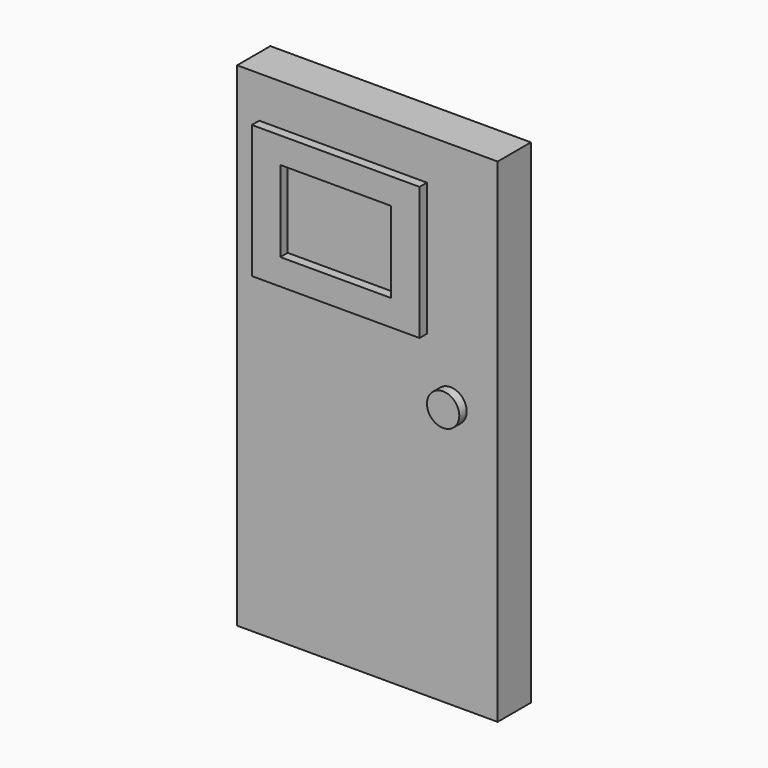
from build123d import *

# Parameters (mm, degrees)
F0_W     = 28.651202
F0_H     = 54.254404
F1_DEPTH = 4.572
F2_R     = 1.777274
F2_W     = 18.440403
F2_H     = 14.630441
F3_DEPTH = 1.016


with BuildPart() as f1:
    # F0 (on Front) → F1 (new body)
    with BuildSketch(Plane.XZ):
        with Locations((-20.421601, -6.5532)):
            Rectangle(F0_W, F0_H)
    extrude(amount=F1_DEPTH)

    # F2 (on face) → F3 (join)
    with BuildSketch(Plane.XZ.offset(4.572)):
        with Locations((-11.2776, -4.7244)):
            Circle(F2_R)
        with Locations((-23.0886, 8.68678)):
            Rectangle(F2_W, F2_H)
        Polygon((-29.184598, 8.68678), (-29.184598, 13.146272), (-23.0886, 13.146272), (-16.992602, 13.146272), (-16.992602, 8.68678), (-16.992602, 4.227289), (-23.0886, 4.227289), (-29.184598, 4.227289), align=None, mode=Mode.SUBTRACT)
    extrude(amount=F3_DEPTH)


solid = f1.part
